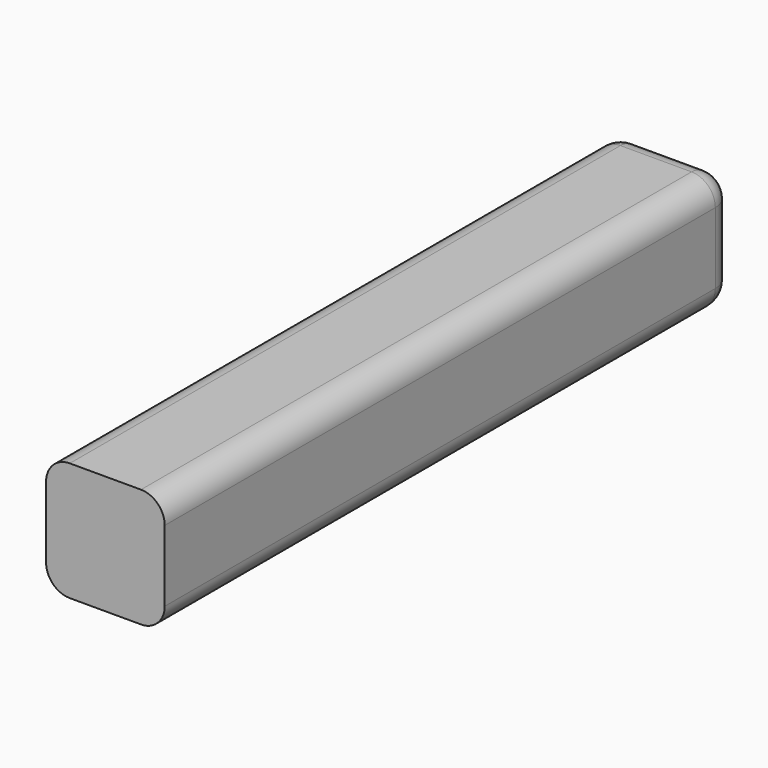
from build123d import *

# Parameters (mm, degrees)
F0_W     = 25.4
F0_H     = 25.4
F1_DEPTH = 152.4
F2_R     = 5.08


with BuildPart() as f1:
    # F0 (on Front) → F1 (new body)
    with BuildSketch(Plane.XZ):
        with Locations((0, 2.534511)):
            Rectangle(F0_W, F0_H)
    extrude(amount=-F1_DEPTH)

    # F2
    f2_edges = [f1.edges().sort_by_distance(p)[0] for p in [
        (-12.7, 76.2, -10.165489),
        (-12.7, 76.2, 15.234511),
        (12.7, 76.2, -10.165489),
        (12.7, 76.2, 15.234511),
        (-12.7, 152.4, 2.534511),
        (0, 152.4, 15.234511),
        (12.7, 152.4, 2.534511),
        (0, 152.4, -10.165489),
    ]]
    fillet(f2_edges, radius=F2_R)


solid = f1.part
